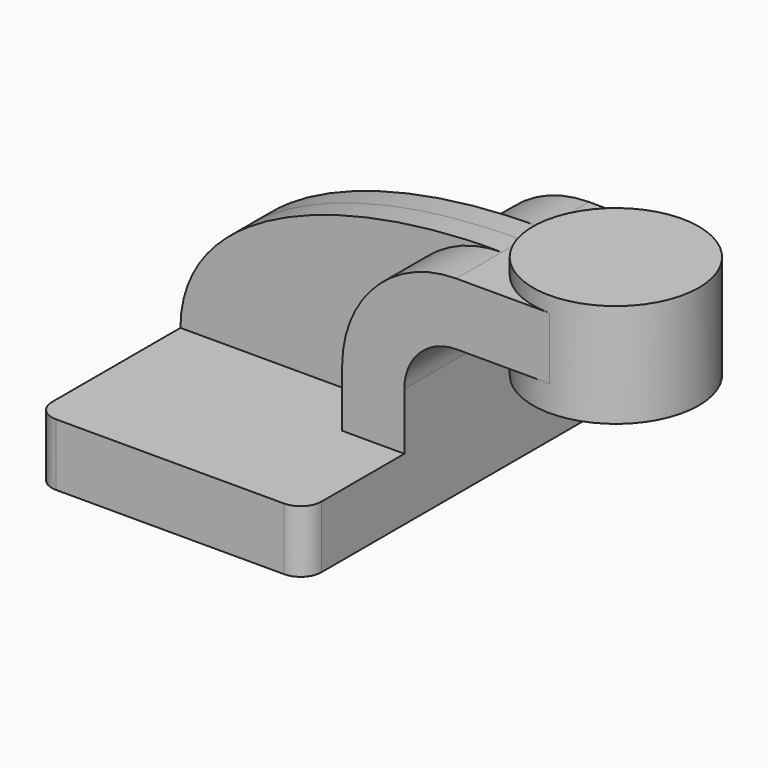
from build123d import *

# Parameters (mm, degrees)
F1_DEPTH = 63.5
F0_W     = 25.4
F0_H     = 19.05
F2_DEPTH = 25.4
F3_DEPTH = 7.9375
F5_R     = 6.35


with BuildPart() as f1:
    # F0 (on Front) → F1 (new body, symmetric)
    with BuildSketch(Plane.XZ):
        Polygon((-41.275, -9.525), (41.275, -9.525), (41.275, 9.525), (22.225, 9.525), (-41.275, 9.525), align=None)
    extrude(amount=F1_DEPTH, both=True)

    # F0 (on Front) → F2 (join, symmetric)
    with BuildSketch(Plane.XZ):
        with BuildLine():
            Line((22.225, 9.525), (41.275, 9.525))
            Line((41.275, 9.525), (41.275, 27.0002))
            ThreePointArc((41.275, 27.0002), (45.9246798487, 38.2255201513), (57.15, 42.8752))
            Line((57.15, 42.8752), (60.325, 42.8752))
            Line((60.325, 42.8752), (60.325, 61.9252))
            Line((60.325, 61.9252), (57.15, 61.9252))
            ThreePointArc((57.15, 61.9252), (32.4542956671, 51.6959043329), (22.225, 27.0002))
            Line((22.225, 27.0002), (22.225, 9.525))
        make_face()
        with Locations((73.025, 52.4002)):
            Rectangle(F0_W, F0_H)
    extrude(amount=F2_DEPTH, both=True)

    # F0 (on Front) → F3 (join, symmetric)
    with BuildSketch(Plane.XZ):
        with BuildLine():
            add(Edge.make_bspline(
                [(-41.275, 9.525), (-41.0840297129, 44.6967575619), (8.0583218869, 62.5009445303), (57.15, 61.9252)],
                knots=[0, 0, 0, 0, 111.5045361635, 111.5045361635, 111.5045361635, 111.5045361635], degree=3))
            Line((-41.275, 9.525), (22.225, 9.525))
            Line((22.225, 9.525), (22.225, 27.0002))
            ThreePointArc((22.225, 27.0002), (32.4542956671, 51.6959043329), (57.15, 61.9252))
        make_face()
    extrude(amount=F3_DEPTH, both=True)

    # F5
    f5_edges = [f1.edges().sort_by_distance(p)[0] for p in [
        (-41.275, -63.5, 0),
        (41.275, -63.5, 0),
        (41.275, 63.5, 0),
        (-41.275, 63.5, 0),
    ]]
    fillet(f5_edges, radius=F5_R)


with BuildPart() as f4:
    # F0 (on Front) → F4 (revolve)
    with BuildSketch(Plane.XZ):
        Polygon((85.725, 66.675), (85.725, 61.9252), (85.725, 42.8752), (85.725, 34.925), (111.125, 34.925), (111.125, 66.675), align=None)
    revolve(axis=Axis((85.725, 0, 50.8), (0, 0, 1)))


solid = Compound([f1.part, f4.part])
